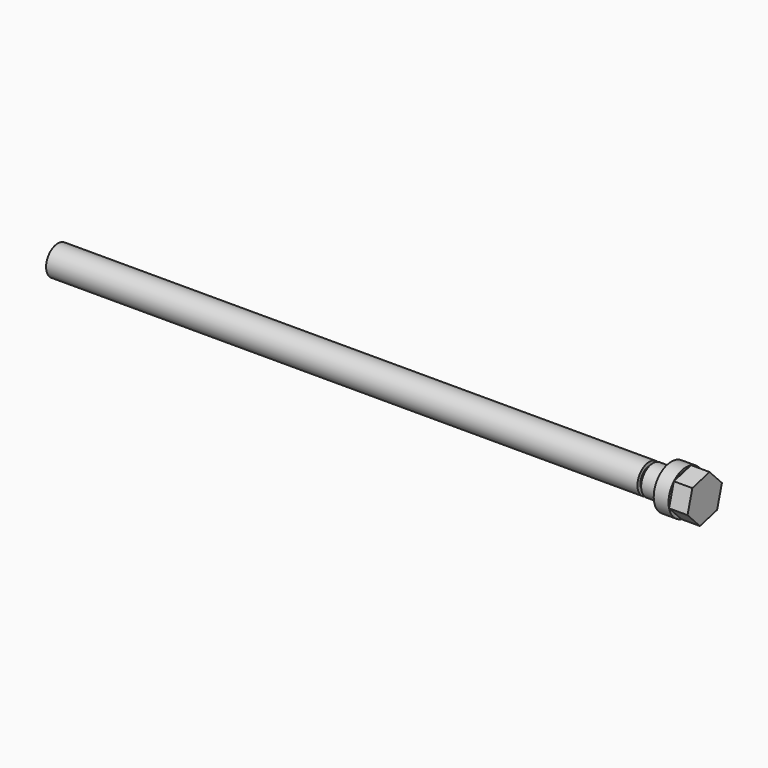
from build123d import *

# Parameters (mm, degrees)
F3_DEPTH = 25


with BuildPart() as f1:
    # F0 (on Front) → F1 (revolve)
    with BuildSketch(Plane.XZ):
        Polygon((-425, 0), (425, 0), (425, 30), (405, 30), (405, 20), (380, 20), (380, 15), (375, 15), (375, 20), (-425, 20), align=None)
    revolve(axis=Axis((-11.130214, 0, 0), (-1, 0, 0)))

    # F2 (on face) → F3 (join)
    with BuildSketch(Plane.YZ.offset(425)):
        Polygon((20.928227, -21.494402), (29.078812, 7.377176), (8.150584, 28.871577), (-20.928227, 21.494402), (-29.078812, -7.377176), (-8.150584, -28.871577), align=None)
    extrude(amount=F3_DEPTH)


solid = f1.part
